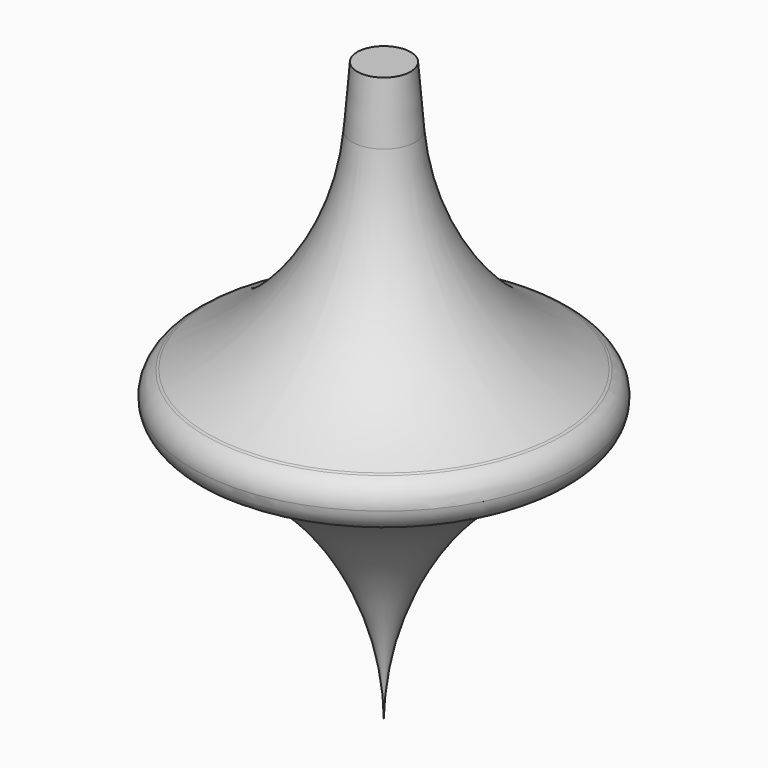
from build123d import *


with BuildPart() as f1:
    # F0 (on Front) → F1 (revolve)
    with BuildSketch(Plane.XZ):
        with BuildLine():
            Line((-15.5245754868, 25.4780445248), (0, 25.4780445248))
            Line((0, 25.4780445248), (0, 51.5757113287))
            Line((0, 51.5757113287), (-2.3522351411, 51.5757113287))
            Line((-2.3522351411, 51.5757113287), (-2.7899385896, 46.242967248))
            ThreePointArc((-2.7899385896, 46.242967248), (-6.6914895082, 35.2837569387), (-15.5245754868, 27.7138836064))
            Line((-15.5245754868, 27.7138836064), (-15.5245754868, 25.4780445248))
        make_face()
        with BuildLine():
            Line((0, 0.2971331928), (0, 25.4780445248))
            Line((0, 25.4780445248), (-15.5245754868, 25.4780445248))
            Line((-15.5245754868, 25.4780445248), (-15.5245754868, 23.5035421708))
            ThreePointArc((-15.5245754868, 23.5035421708), (-4.2761275236, 14.2325019362), (0, 0.2971331928))
        make_face()
        with BuildLine():
            Line((-16.9251810058, 25.4780445248), (-15.5245754868, 25.4780445248))
            Line((-15.5245754868, 25.4780445248), (-15.5245754868, 27.7138836064))
            ThreePointArc((-15.5245754868, 27.7138836064), (-15.6258616602, 27.6654635474), (-15.7273869517, 27.617546888))
            ThreePointArc((-15.7273869517, 27.617546888), (-16.6383671974, 26.722514571), (-16.9251810058, 25.4780445248))
        make_face()
        with BuildLine():
            Line((-15.5245754868, 23.5035421708), (-15.5245754868, 25.4780445248))
            Line((-15.5245754868, 25.4780445248), (-16.9251810058, 25.4780445248))
            ThreePointArc((-16.9251810058, 25.4780445248), (-16.508568758, 24.2895585934), (-15.5245754868, 23.5035421708))
        make_face()
    revolve(axis=Axis((0, 0, 31.6613130271), (0, 0, 1)))


solid = f1.part
